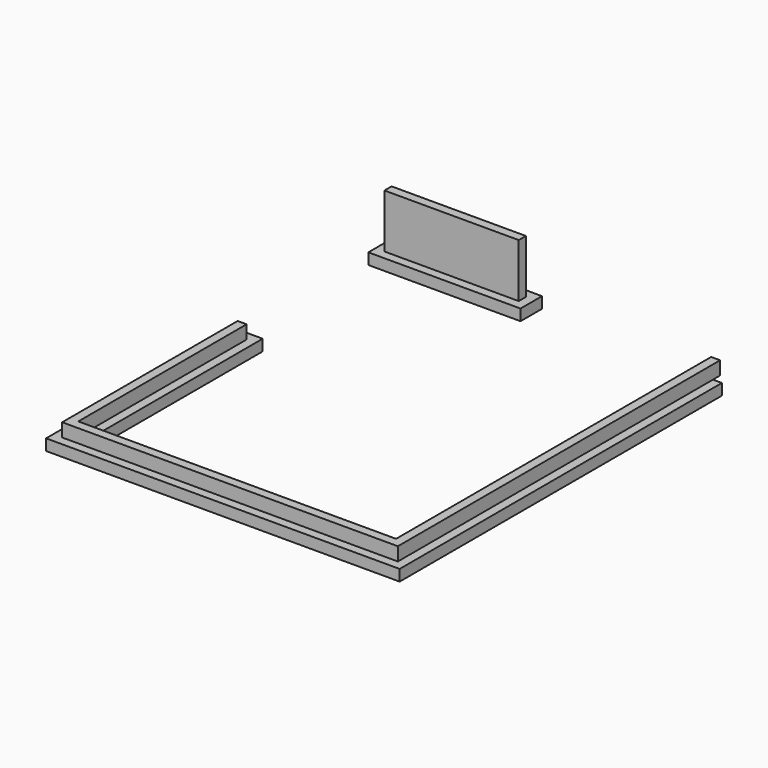
from build123d import *

# Parameters (mm, degrees)
F1_DEPTH = 254
F2_W     = 3048
F2_H     = 203.2
F3_DEPTH = 304.8
F4_W     = 3048
F4_H     = 203.2
F5_DEPTH = 914.4
F6_W     = 4572
F6_H     = 609.6
F7_DEPTH = 254


with BuildPart() as f1:
    # F0 (on Top) → F1 (new body)
    with BuildSketch(Plane.XY):
        Polygon((8026.4, 0), (0, 0), (0, -609.6), (7416.8, -609.6), (7416.8, -9144), (609.6, -9144), (609.6, -4368.8), (0, -4368.8), (0, -9753.6), (8026.4, -9753.6), align=None)
    extrude(amount=F1_DEPTH)

    # F2 (on face) → F3 (join)
    with BuildSketch(Plane.XY.offset(254)):
        with Locations((1727.2, -304.8)):
            Rectangle(F2_W, F2_H)
        Polygon((7823.2, -406.4), (7620, -406.4), (7620, -9347.2), (406.4, -9347.2), (406.4, -4572), (203.2, -4572), (203.2, -9550.4), (7823.2, -9550.4), align=None)
    extrude(amount=F3_DEPTH)

    # F4 (on face) → F5 (join)
    with BuildSketch(Plane.XY.offset(558.8)):
        with Locations((1727.2, -304.8)):
            Rectangle(F4_W, F4_H)
    extrude(amount=F5_DEPTH)

    # F6 (on face) → F7 (cut)
    with BuildSketch(Plane(origin=(0, 0, 0), x_dir=(1, 0, 0), z_dir=(0, 0, -1))):
        with Locations((5740.4, 304.8)):
            Rectangle(F6_W, F6_H)
    extrude(amount=-F7_DEPTH, mode=Mode.SUBTRACT)


solid = f1.part
